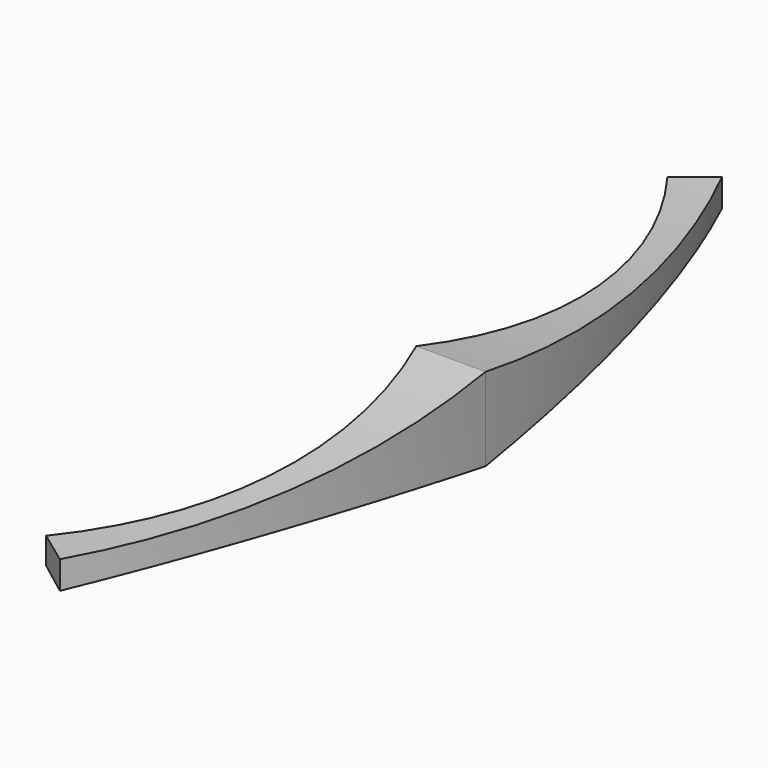
from build123d import *

# Parameters (mm, degrees)
F1_DEPTH = 15
F3_DEPTH = 30


with BuildPart() as f1:
    # F0 (on Top) → F1 (new body)
    with BuildSketch(Plane.XY):
        with BuildLine():
            Line((0, 0), (25, 0))
            ThreePointArc((25, 0), (16.350977, 76.530518), (-9.159795, 149.200499))
            Line((-9.159795, 149.200499), (-21.486737, 140.02049))
            ThreePointArc((-21.486737, 140.02049), (6.680505, 72.684012), (0, 0))
        make_face()
    extrude(amount=F1_DEPTH)

    # F2 (on Right) → F3 (intersect, symmetric)
    with BuildSketch(Plane.YZ):
        with BuildLine():
            ThreePointArc((149.200499, 5.021363), (74.342296, 6.153758), (0, 15))
            Line((0, 15), (0, 0))
            Line((0, 0), (149.200499, 0))
            Line((149.200499, 0), (149.200499, 5.021363))
        make_face()
    extrude(amount=F3_DEPTH, both=True, mode=Mode.INTERSECT)

    # F4: F1 across plane


with BuildPart() as f1_1:
    add(f1.part)
    add(f1.part.mirror(Plane.XZ))

    # F5: F1 across plane


with BuildPart() as f1_2:
    add(f1_1.part)
    add(f1_1.part.mirror(Plane.XY))


solid = f1_2.part
